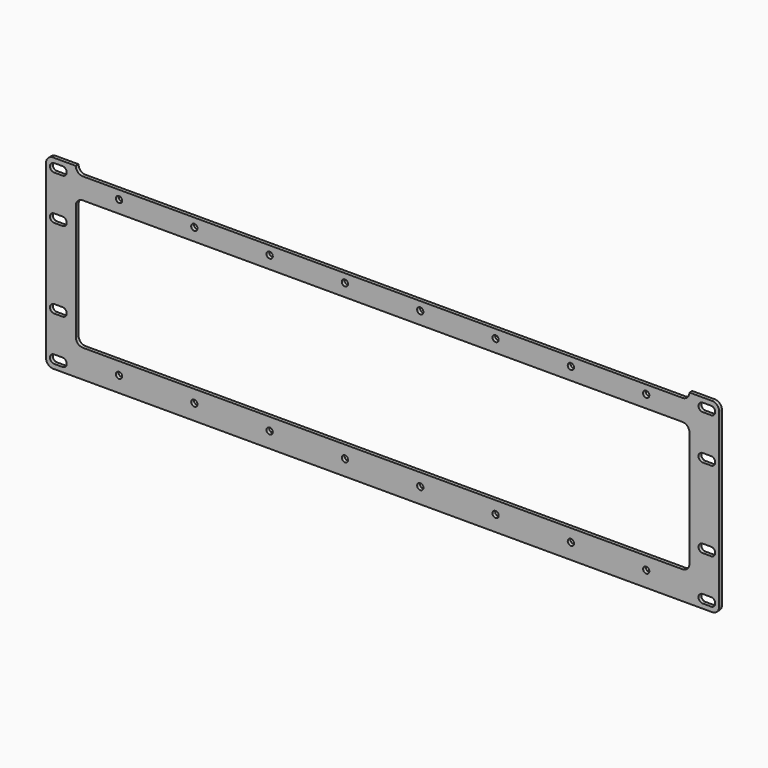
from build123d import *

# Parameters (mm, degrees)
F1_R     = 2.25
F2_DEPTH = 2.5


with BuildPart() as f2:
    # F1 (on face) → F2 (new body)
    with BuildSketch(Plane.XZ):
        with BuildLine():
            Line((241.3, -61.675), (241.3, 61.675))
            ThreePointArc((241.3, 61.675), (239.8355339059, 65.2105339059), (236.3, 66.675))
            Line((236.3, 66.675), (220, 66.675))
            ThreePointArc((220, 66.675), (218.5355339059, 63.1394660941), (215, 61.675))
            Line((215, 61.675), (-215, 61.675))
            ThreePointArc((-215, 61.675), (-218.5355339059, 63.1394660941), (-220, 66.675))
            Line((-220, 66.675), (-236.3, 66.675))
            ThreePointArc((-236.3, 66.675), (-239.8355339059, 65.2105339059), (-241.3, 61.675))
            Line((-241.3, 61.675), (-241.3, -61.675))
            ThreePointArc((-241.3, -61.675), (-239.8355339059, -65.2105339059), (-236.3, -66.675))
            Line((-236.3, -66.675), (236.3, -66.675))
            ThreePointArc((236.3, -66.675), (239.8355339059, -65.2105339059), (241.3, -61.675))
        make_face()
        with BuildLine():
            Line((-235.5, -57.4), (-229.5, -57.4))
            ThreePointArc((-229.5, -57.4), (-226.5, -60.4), (-229.5, -63.4))
            Line((-229.5, -63.4), (-235.5, -63.4))
            ThreePointArc((-235.5, -63.4), (-238.5, -60.4), (-235.5, -57.4))
        make_face(mode=Mode.SUBTRACT)
        with Locations((-189, -55.5)):
            Circle(F1_R, mode=Mode.SUBTRACT)
        with Locations((-135, -55.5)):
            Circle(F1_R, mode=Mode.SUBTRACT)
        with Locations((-81, -55.5)):
            Circle(F1_R, mode=Mode.SUBTRACT)
        with Locations((-27, -55.5)):
            Circle(F1_R, mode=Mode.SUBTRACT)
        with BuildLine():
            Line((-235.5, -25.6), (-229.5, -25.6))
            ThreePointArc((-229.5, -25.6), (-226.5, -28.6), (-229.5, -31.6))
            Line((-229.5, -31.6), (-235.5, -31.6))
            ThreePointArc((-235.5, -31.6), (-238.5, -28.6), (-235.5, -25.6))
        make_face(mode=Mode.SUBTRACT)
        with Locations((27, -55.5)):
            Circle(F1_R, mode=Mode.SUBTRACT)
        with Locations((81, -55.5)):
            Circle(F1_R, mode=Mode.SUBTRACT)
        with Locations((135, -55.5)):
            Circle(F1_R, mode=Mode.SUBTRACT)
        with BuildLine():
            Line((229.5, -57.4), (235.5, -57.4))
            ThreePointArc((235.5, -57.4), (238.5, -60.4), (235.5, -63.4))
            Line((235.5, -63.4), (229.5, -63.4))
            ThreePointArc((229.5, -63.4), (226.5, -60.4), (229.5, -57.4))
        make_face(mode=Mode.SUBTRACT)
        with Locations((189, -55.5)):
            Circle(F1_R, mode=Mode.SUBTRACT)
        with BuildLine():
            Line((229.5, -25.6), (235.5, -25.6))
            ThreePointArc((235.5, -25.6), (238.5, -28.6), (235.5, -31.6))
            Line((235.5, -31.6), (229.5, -31.6))
            ThreePointArc((229.5, -31.6), (226.5, -28.6), (229.5, -25.6))
        make_face(mode=Mode.SUBTRACT)
        with BuildLine():
            Line((-235.5, 31.6), (-229.5, 31.6))
            ThreePointArc((-229.5, 31.6), (-226.5, 28.6), (-229.5, 25.6))
            Line((-229.5, 25.6), (-235.5, 25.6))
            ThreePointArc((-235.5, 25.6), (-238.5, 28.6), (-235.5, 31.6))
        make_face(mode=Mode.SUBTRACT)
        with Locations((-189, 55.5)):
            Circle(F1_R, mode=Mode.SUBTRACT)
        with BuildLine():
            Line((-235.5, 63.4), (-229.5, 63.4))
            ThreePointArc((-229.5, 63.4), (-226.5, 60.4), (-229.5, 57.4))
            Line((-229.5, 57.4), (-235.5, 57.4))
            ThreePointArc((-235.5, 57.4), (-238.5, 60.4), (-235.5, 63.4))
        make_face(mode=Mode.SUBTRACT)
        with Locations((-135, 55.5)):
            Circle(F1_R, mode=Mode.SUBTRACT)
        with Locations((-81, 55.5)):
            Circle(F1_R, mode=Mode.SUBTRACT)
        with Locations((-27, 55.5)):
            Circle(F1_R, mode=Mode.SUBTRACT)
        with BuildLine():
            Line((-215, 46.5), (215, 46.5))
            ThreePointArc((215, 46.5), (218.5355339059, 45.0355339059), (220, 41.5))
            Line((220, 41.5), (220, -41.5))
            ThreePointArc((220, -41.5), (218.5355339059, -45.0355339059), (215, -46.5))
            Line((215, -46.5), (-215, -46.5))
            ThreePointArc((-215, -46.5), (-218.5355339059, -45.0355339059), (-220, -41.5))
            Line((-220, -41.5), (-220, 41.5))
            ThreePointArc((-220, 41.5), (-218.5355339059, 45.0355339059), (-215, 46.5))
        make_face(mode=Mode.SUBTRACT)
        with BuildLine():
            Line((229.5, 31.6), (235.5, 31.6))
            ThreePointArc((235.5, 31.6), (238.5, 28.6), (235.5, 25.6))
            Line((235.5, 25.6), (229.5, 25.6))
            ThreePointArc((229.5, 25.6), (226.5, 28.6), (229.5, 31.6))
        make_face(mode=Mode.SUBTRACT)
        with Locations((27, 55.5)):
            Circle(F1_R, mode=Mode.SUBTRACT)
        with Locations((81, 55.5)):
            Circle(F1_R, mode=Mode.SUBTRACT)
        with Locations((135, 55.5)):
            Circle(F1_R, mode=Mode.SUBTRACT)
        with Locations((189, 55.5)):
            Circle(F1_R, mode=Mode.SUBTRACT)
        with BuildLine():
            Line((229.5, 63.4), (235.5, 63.4))
            ThreePointArc((235.5, 63.4), (238.5, 60.4), (235.5, 57.4))
            Line((235.5, 57.4), (229.5, 57.4))
            ThreePointArc((229.5, 57.4), (226.5, 60.4), (229.5, 63.4))
        make_face(mode=Mode.SUBTRACT)
    extrude(amount=F2_DEPTH)


solid = f2.part
